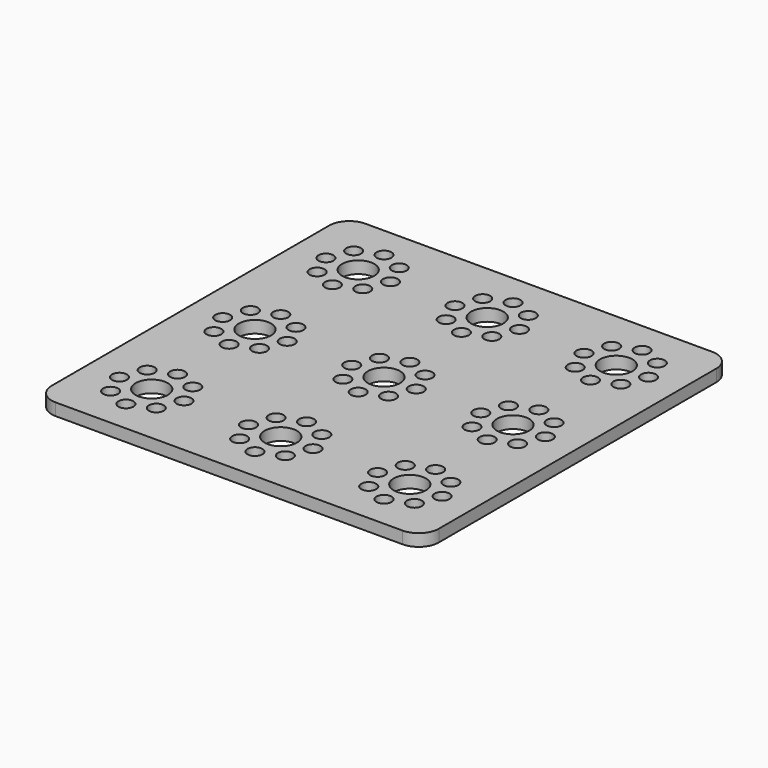
from build123d import *

# Parameters (mm, degrees)
F0_R     = 1.85
F0_R_2   = 4
F2_DEPTH = 3


with BuildPart() as f2:
    # F0 (on Top) → F2 (new body)
    with BuildSketch(Plane.XY):
        with BuildLine():
            Line((91, 96), (5, 96))
            ThreePointArc((5, 96), (1.4644660941, 94.5355339059), (0, 91))
            Line((0, 91), (0, 5))
            ThreePointArc((0, 5), (1.4644660941, 1.4644660941), (5, 0))
            Line((5, 0), (91, 0))
            ThreePointArc((91, 0), (94.5355339059, 1.4644660941), (96, 5))
            Line((96, 5), (96, 91))
            ThreePointArc((96, 91), (94.5355339059, 94.5355339059), (91, 96))
        make_face()
        with Locations((10.3431457505, 10.3431457505)):
            Circle(F0_R, mode=Mode.SUBTRACT)
        with Locations((16, 8)):
            Circle(F0_R, mode=Mode.SUBTRACT)
        with Locations((21.6568542495, 10.3431457505)):
            Circle(F0_R, mode=Mode.SUBTRACT)
        with Locations((8, 16)):
            Circle(F0_R, mode=Mode.SUBTRACT)
        with Locations((10.3431457505, 21.6568542495)):
            Circle(F0_R, mode=Mode.SUBTRACT)
        with Locations((16, 16)):
            Circle(F0_R_2, mode=Mode.SUBTRACT)
        with Locations((21.6568542495, 21.6568542495)):
            Circle(F0_R, mode=Mode.SUBTRACT)
        with Locations((42.3431457505, 10.3431457505)):
            Circle(F0_R, mode=Mode.SUBTRACT)
        with Locations((24, 16)):
            Circle(F0_R, mode=Mode.SUBTRACT)
        with Locations((40, 16)):
            Circle(F0_R, mode=Mode.SUBTRACT)
        with Locations((42.3431457505, 21.6568542495)):
            Circle(F0_R, mode=Mode.SUBTRACT)
        with Locations((16, 24)):
            Circle(F0_R, mode=Mode.SUBTRACT)
        with Locations((10.3431457505, 42.3431457505)):
            Circle(F0_R, mode=Mode.SUBTRACT)
        with Locations((16, 40)):
            Circle(F0_R, mode=Mode.SUBTRACT)
        with Locations((21.6568542495, 42.3431457505)):
            Circle(F0_R, mode=Mode.SUBTRACT)
        with Locations((42.3431457505, 42.3431457505)):
            Circle(F0_R, mode=Mode.SUBTRACT)
        with Locations((48, 8)):
            Circle(F0_R, mode=Mode.SUBTRACT)
        with Locations((53.6568542495, 10.3431457505)):
            Circle(F0_R, mode=Mode.SUBTRACT)
        with Locations((48, 16)):
            Circle(F0_R_2, mode=Mode.SUBTRACT)
        with Locations((56, 16)):
            Circle(F0_R, mode=Mode.SUBTRACT)
        with Locations((53.6568542495, 21.6568542495)):
            Circle(F0_R, mode=Mode.SUBTRACT)
        with Locations((74.3431457505, 10.3431457505)):
            Circle(F0_R, mode=Mode.SUBTRACT)
        with Locations((80, 8)):
            Circle(F0_R, mode=Mode.SUBTRACT)
        with Locations((85.6568542495, 10.3431457505)):
            Circle(F0_R, mode=Mode.SUBTRACT)
        with Locations((72, 16)):
            Circle(F0_R, mode=Mode.SUBTRACT)
        with Locations((80, 16)):
            Circle(F0_R_2, mode=Mode.SUBTRACT)
        with Locations((74.3431457505, 21.6568542495)):
            Circle(F0_R, mode=Mode.SUBTRACT)
        with Locations((88, 16)):
            Circle(F0_R, mode=Mode.SUBTRACT)
        with Locations((85.6568542495, 21.6568542495)):
            Circle(F0_R, mode=Mode.SUBTRACT)
        with Locations((48, 24)):
            Circle(F0_R, mode=Mode.SUBTRACT)
        with Locations((48, 40)):
            Circle(F0_R, mode=Mode.SUBTRACT)
        with Locations((53.6568542495, 42.3431457505)):
            Circle(F0_R, mode=Mode.SUBTRACT)
        with Locations((80, 24)):
            Circle(F0_R, mode=Mode.SUBTRACT)
        with Locations((80, 40)):
            Circle(F0_R, mode=Mode.SUBTRACT)
        with Locations((74.3431457505, 42.3431457505)):
            Circle(F0_R, mode=Mode.SUBTRACT)
        with Locations((85.6568542495, 42.3431457505)):
            Circle(F0_R, mode=Mode.SUBTRACT)
        with Locations((8, 48)):
            Circle(F0_R, mode=Mode.SUBTRACT)
        with Locations((10.3431457505, 53.6568542495)):
            Circle(F0_R, mode=Mode.SUBTRACT)
        with Locations((16, 48)):
            Circle(F0_R_2, mode=Mode.SUBTRACT)
        with Locations((21.6568542495, 53.6568542495)):
            Circle(F0_R, mode=Mode.SUBTRACT)
        with Locations((16, 56)):
            Circle(F0_R, mode=Mode.SUBTRACT)
        with Locations((24, 48)):
            Circle(F0_R, mode=Mode.SUBTRACT)
        with Locations((40, 48)):
            Circle(F0_R, mode=Mode.SUBTRACT)
        with Locations((42.3431457505, 53.6568542495)):
            Circle(F0_R, mode=Mode.SUBTRACT)
        with Locations((10.3431457505, 74.3431457505)):
            Circle(F0_R, mode=Mode.SUBTRACT)
        with Locations((8, 80)):
            Circle(F0_R, mode=Mode.SUBTRACT)
        with Locations((16, 72)):
            Circle(F0_R, mode=Mode.SUBTRACT)
        with Locations((21.6568542495, 74.3431457505)):
            Circle(F0_R, mode=Mode.SUBTRACT)
        with Locations((16, 80)):
            Circle(F0_R_2, mode=Mode.SUBTRACT)
        with Locations((10.3431457505, 85.6568542495)):
            Circle(F0_R, mode=Mode.SUBTRACT)
        with Locations((16, 88)):
            Circle(F0_R, mode=Mode.SUBTRACT)
        with Locations((21.6568542495, 85.6568542495)):
            Circle(F0_R, mode=Mode.SUBTRACT)
        with Locations((24, 80)):
            Circle(F0_R, mode=Mode.SUBTRACT)
        with Locations((42.3431457505, 74.3431457505)):
            Circle(F0_R, mode=Mode.SUBTRACT)
        with Locations((40, 80)):
            Circle(F0_R, mode=Mode.SUBTRACT)
        with Locations((42.3431457505, 85.6568542495)):
            Circle(F0_R, mode=Mode.SUBTRACT)
        with Locations((48, 48)):
            Circle(F0_R_2, mode=Mode.SUBTRACT)
        with Locations((53.6568542495, 53.6568542495)):
            Circle(F0_R, mode=Mode.SUBTRACT)
        with Locations((56, 48)):
            Circle(F0_R, mode=Mode.SUBTRACT)
        with Locations((48, 56)):
            Circle(F0_R, mode=Mode.SUBTRACT)
        with Locations((72, 48)):
            Circle(F0_R, mode=Mode.SUBTRACT)
        with Locations((74.3431457505, 53.6568542495)):
            Circle(F0_R, mode=Mode.SUBTRACT)
        with Locations((80, 48)):
            Circle(F0_R_2, mode=Mode.SUBTRACT)
        with Locations((80, 56)):
            Circle(F0_R, mode=Mode.SUBTRACT)
        with Locations((88, 48)):
            Circle(F0_R, mode=Mode.SUBTRACT)
        with Locations((85.6568542495, 53.6568542495)):
            Circle(F0_R, mode=Mode.SUBTRACT)
        with Locations((48, 72)):
            Circle(F0_R, mode=Mode.SUBTRACT)
        with Locations((53.6568542495, 74.3431457505)):
            Circle(F0_R, mode=Mode.SUBTRACT)
        with Locations((48, 80)):
            Circle(F0_R_2, mode=Mode.SUBTRACT)
        with Locations((56, 80)):
            Circle(F0_R, mode=Mode.SUBTRACT)
        with Locations((53.6568542495, 85.6568542495)):
            Circle(F0_R, mode=Mode.SUBTRACT)
        with Locations((48, 88)):
            Circle(F0_R, mode=Mode.SUBTRACT)
        with Locations((74.3431457505, 74.3431457505)):
            Circle(F0_R, mode=Mode.SUBTRACT)
        with Locations((80, 72)):
            Circle(F0_R, mode=Mode.SUBTRACT)
        with Locations((72, 80)):
            Circle(F0_R, mode=Mode.SUBTRACT)
        with Locations((80, 80)):
            Circle(F0_R_2, mode=Mode.SUBTRACT)
        with Locations((85.6568542495, 74.3431457505)):
            Circle(F0_R, mode=Mode.SUBTRACT)
        with Locations((88, 80)):
            Circle(F0_R, mode=Mode.SUBTRACT)
        with Locations((74.3431457505, 85.6568542495)):
            Circle(F0_R, mode=Mode.SUBTRACT)
        with Locations((80, 88)):
            Circle(F0_R, mode=Mode.SUBTRACT)
        with Locations((85.6568542495, 85.6568542495)):
            Circle(F0_R, mode=Mode.SUBTRACT)
    extrude(amount=F2_DEPTH)


solid = f2.part
